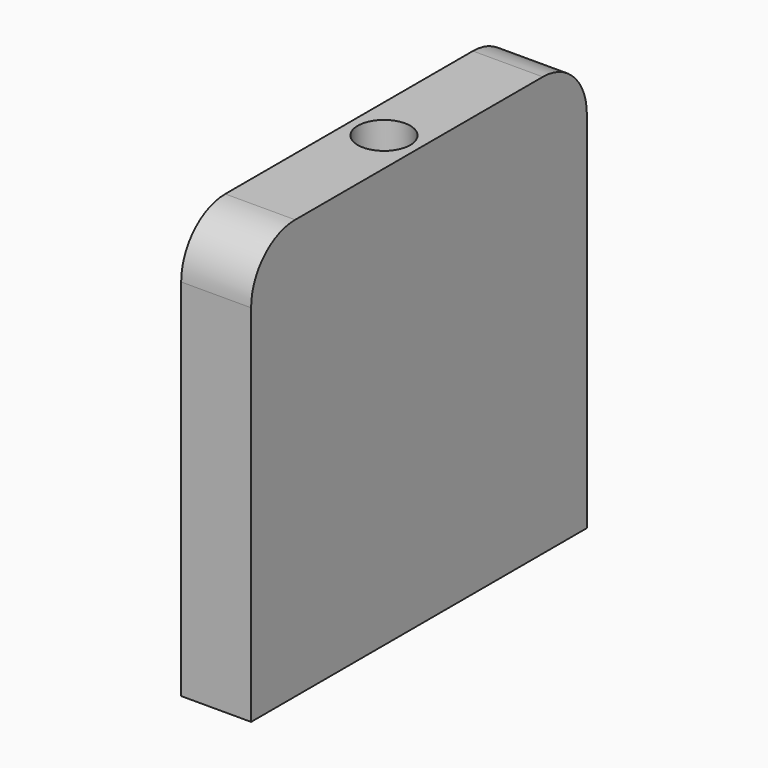
from build123d import *

# Parameters (mm, degrees)
F0_W           = 12.7
F0_H           = 76.2
F1_DEPTH       = 76.2
F3_D           = 6.35
F3_CBORE_D     = 9.525
F3_CBORE_DEPTH = 6.35
F4_R           = 10


with BuildPart() as f1:
    # F0 (on Front) → F1 (new body)
    with BuildSketch(Plane.XZ):
        Rectangle(F0_W, F0_H)
    extrude(amount=F1_DEPTH)

    # F3 (through all)
    with Locations(Plane.XY.offset(38.1)):
        with Locations((0, -38.1)):
            CounterBoreHole(F3_D / 2, F3_CBORE_D / 2, F3_CBORE_DEPTH)

    # F4
    f4_edges = [f1.edges().sort_by_distance(p)[0] for p in [
        (0, -76.2, 38.1),
        (0, 0, 38.1),
    ]]
    fillet(f4_edges, radius=F4_R)


solid = f1.part
